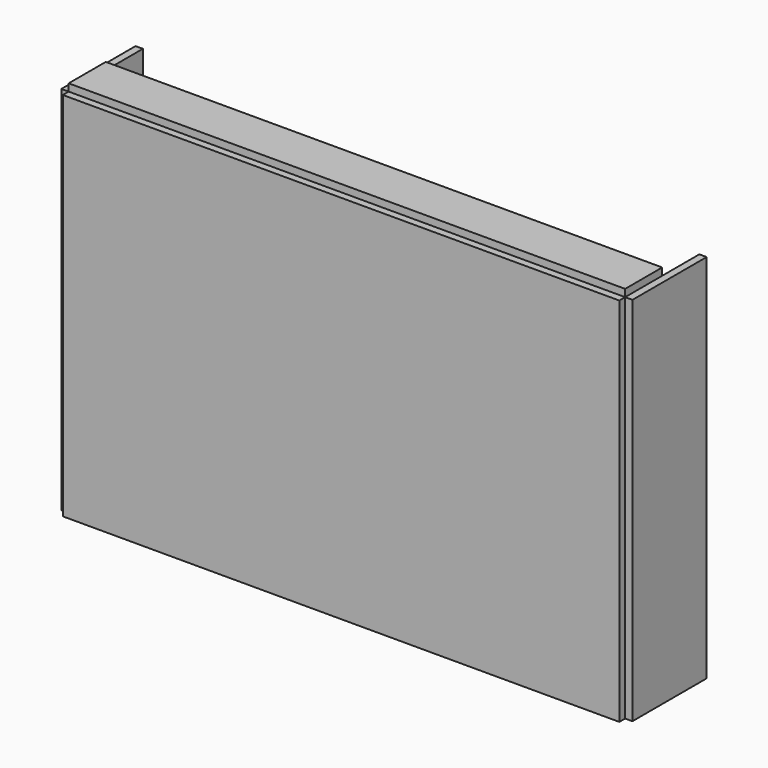
from build123d import *

# Parameters (mm, degrees)
F0_W     = 76.2
F0_H     = 50.8
F1_DEPTH = 1
F2_W     = 12.7
F2_H     = 50.8
F3_DEPTH = 1
F4_W     = 12.7
F4_H     = 50.8
F5_DEPTH = 1
F6_W     = 76.2
F6_H     = 6.35
F7_DEPTH = 1


with BuildPart() as f1:
    # F0 (on Front) → F1 (new body)
    with BuildSketch(Plane.XZ):
        with Locations((-10.240782, -1.244969)):
            Rectangle(F0_W, F0_H)
    extrude(amount=F1_DEPTH)


with BuildPart() as f3:
    # F2 (on face) → F3 (new body)
    with BuildSketch(Plane.YZ.offset(27.859218)):
        with Locations((6.35, -1.244969)):
            Rectangle(F2_W, F2_H)
    extrude(amount=F3_DEPTH)


with BuildPart() as f5:
    # F4 (on face) → F5 (new body)
    with BuildSketch(Plane(origin=(-48.340782, 0, 0), x_dir=(0, -1, 0), z_dir=(-1, 0, 0))):
        with Locations((-6.35, -1.244969)):
            Rectangle(F4_W, F4_H)
    extrude(amount=F5_DEPTH)


with BuildPart() as f7:
    # F6 (on face) → F7 (new body)
    with BuildSketch(Plane.XY.offset(24.155031)):
        with Locations((-10.240782, 3.175)):
            Rectangle(F6_W, F6_H)
    extrude(amount=F7_DEPTH)


solid = Compound([f1.part, f3.part, f5.part, f7.part])
